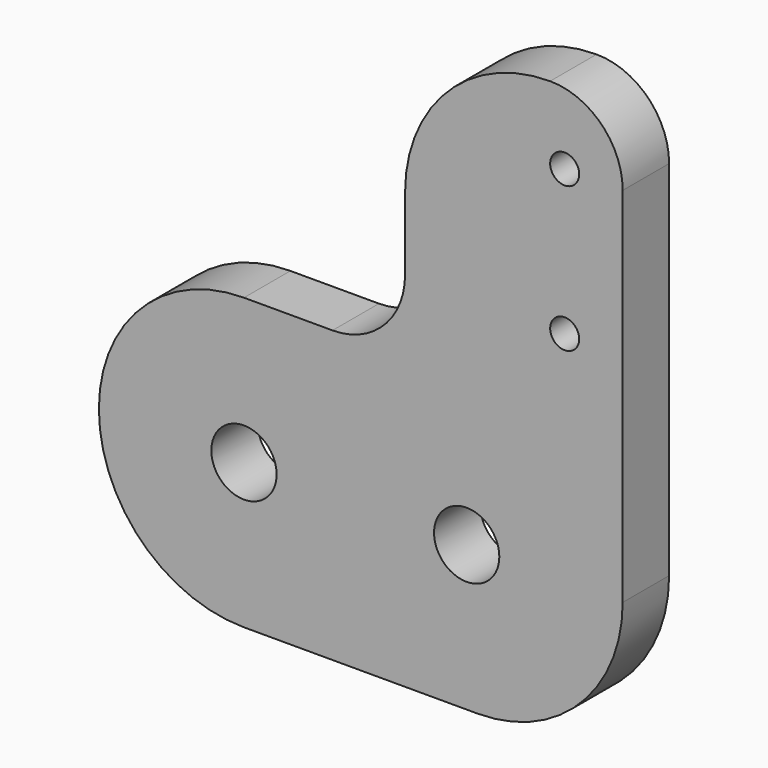
from build123d import *

# Parameters (mm, degrees)
F0_R     = 2.25
F0_R_2   = 1
F1_DEPTH = 4


with BuildPart() as f1:
    # F0 (on Front) → F1 (new body)
    with BuildSketch(Plane.XZ):
        with BuildLine():
            ThreePointArc((0.754098, -10), (7.825165, -7.071068), (10.754098, 0))
            Line((10.754098, 0), (10.754098, 10))
            Line((10.754098, 10), (10.754098, 15))
            Line((10.754098, 15), (10.754098, 25))
            ThreePointArc((10.754098, 25), (9.289631, 28.535534), (5.754098, 30))
            ThreePointArc((5.754098, 30), (-1.31697, 27.071068), (-4.245902, 20))
            Line((-4.245902, 20), (-4.245902, 15))
            ThreePointArc((-4.245902, 15), (-5.710369, 11.464466), (-9.245902, 10))
            Line((-9.245902, 10), (-15.348779, 10))
            ThreePointArc((-15.348779, 10), (-25.348779, 0), (-15.348779, -10))
            Line((-15.348779, -10), (0, -10))
            Line((0, -10), (0.754098, -10))
        make_face()
        with Locations((-15.348779, 0)):
            Circle(F0_R, mode=Mode.SUBTRACT)
        Circle(F0_R, mode=Mode.SUBTRACT)
        with Locations((6.754098, 15)):
            Circle(F0_R_2, mode=Mode.SUBTRACT)
        with Locations((6.754098, 25)):
            Circle(F0_R_2, mode=Mode.SUBTRACT)
    extrude(amount=F1_DEPTH)


solid = f1.part
